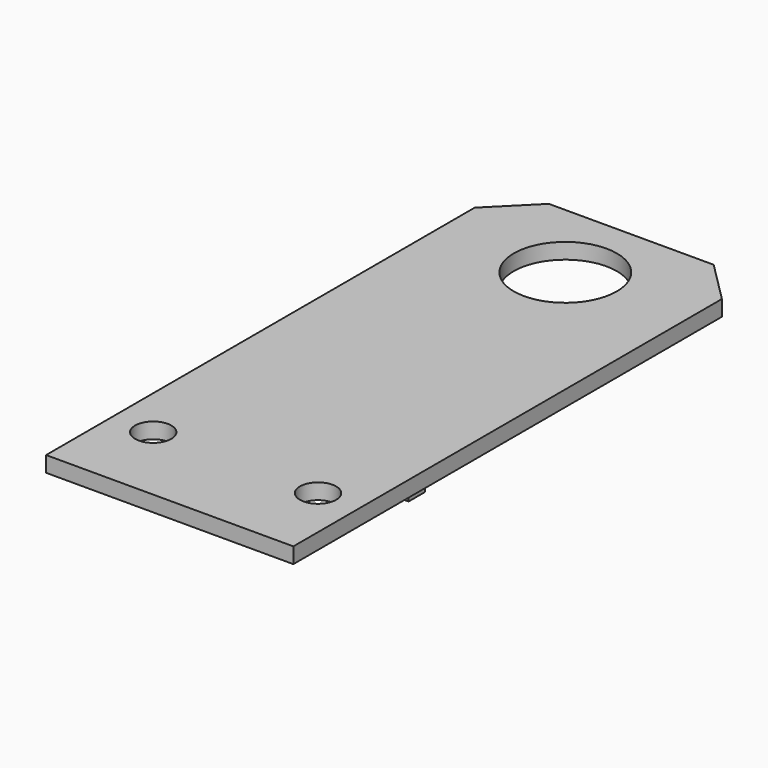
from build123d import *

# Parameters (mm, degrees)
F0_W     = 76.2
F0_H     = 177.8
F0_R     = 5.588
F0_R_2   = 15.875
F1_DEPTH = 4.826
F2_SIZE  = 12.7
F3_W     = 63.5
F3_H     = 6.35
F4_DEPTH = 6.35


with BuildPart() as f1:
    # F0 (on Top) → F1 (new body)
    with BuildSketch(Plane.XY):
        with Locations((0, -63.5)):
            Rectangle(F0_W, F0_H)
        with Locations((-25.4, -127)):
            Circle(F0_R, mode=Mode.SUBTRACT)
        with Locations((25.4, -127)):
            Circle(F0_R, mode=Mode.SUBTRACT)
        Circle(F0_R_2, mode=Mode.SUBTRACT)
    extrude(amount=F1_DEPTH)

    # F2
    f2_edges = [f1.edges().sort_by_distance(p)[0] for p in [
        (38.1, 25.4, 2.413),
        (-38.1, 25.4, 2.413),
    ]]
    chamfer(f2_edges, length=F2_SIZE)

    # F3 (on face) → F4 (join)
    with BuildSketch(Plane(origin=(0, 0, 0), x_dir=(1, 0, 0), z_dir=(0, 0, -1))):
        with Locations((0, 96.901)):
            Rectangle(F3_W, F3_H)
    extrude(amount=F4_DEPTH)


solid = f1.part
